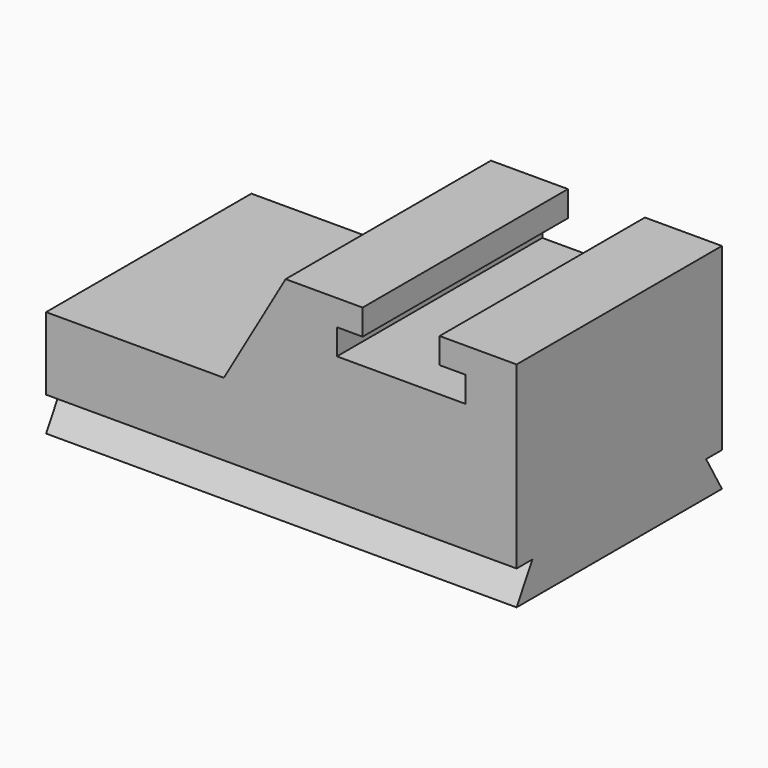
from build123d import *

# Parameters (mm, degrees)
F1_DEPTH = 1524
F3_DEPTH = 2794.001
F5_DEPTH = 2794.001


with BuildPart() as f1:
    # F0 (on Front) → F1 (new body)
    with BuildSketch(Plane.XZ):
        Polygon((-53.885602, 615.67555), (-53.885602, -19.32445), (2740.114398, -19.32445), (2740.114398, 1250.67555), (2282.914398, 1250.67555), (2282.914398, 1098.27555), (2435.314398, 1098.27555), (2435.314398, 945.87555), (1673.314398, 945.87555), (1673.314398, 1098.27555), (1825.714398, 1098.27555), (1825.714398, 1250.67555), (1368.514398, 1250.67555), (1001.896977, 615.67555), align=None)
    extrude(amount=F1_DEPTH)

    # F2 (on face) → F3 (cut, through all)
    with BuildSketch(Plane(origin=(-53.885602, 0, 0), x_dir=(0, -1, 0), z_dir=(-1, 0, 0))):
        Polygon((0, 183.87555), (0, -19.32445), (117.317575, 183.87555), align=None)
    extrude(amount=-F3_DEPTH, mode=Mode.SUBTRACT)

    # F4 (on face) → F5 (cut, through all)
    with BuildSketch(Plane(origin=(-53.885602, 0, 0), x_dir=(0, -1, 0), z_dir=(-1, 0, 0))):
        Polygon((1406.682425, 183.87555), (1524, -19.32445), (1524, 183.87555), align=None)
    extrude(amount=-F5_DEPTH, mode=Mode.SUBTRACT)


solid = f1.part
